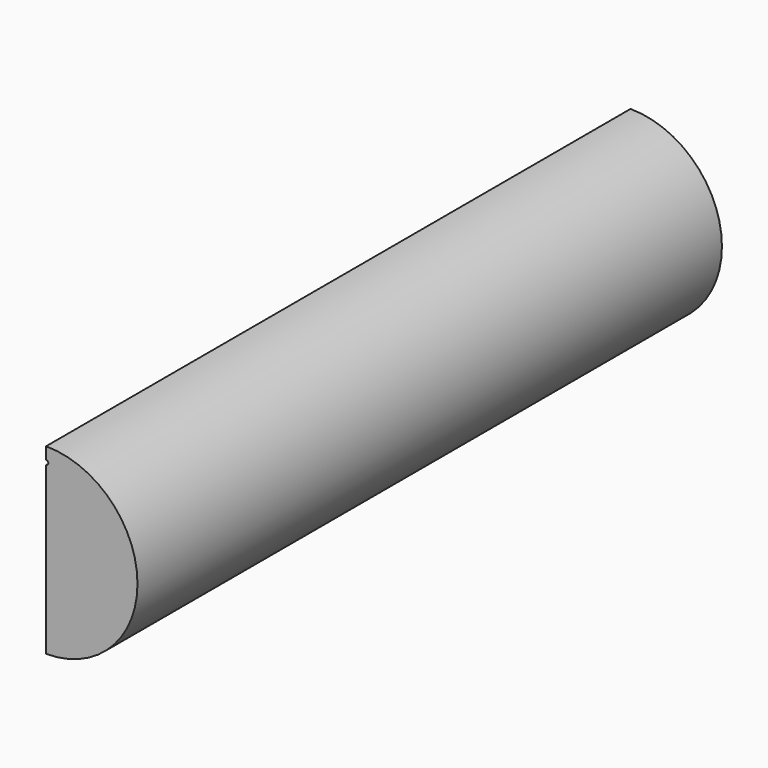
from build123d import *

# Parameters (mm, degrees)
F0_R     = 161.29
F1_DEPTH = 1289.304
F2_R     = 4.826
F3_DEPTH = 905.002
F8_DEPTH = 1323.34


with BuildPart() as f1:
    # F0 (on Front) → F1 (new body)
    with BuildSketch(Plane.XZ):
        Circle(F0_R)
    extrude(amount=F1_DEPTH)

    # F2 (on face) → F3 (cut)
    with BuildSketch(Plane(origin=(0, 0, 0), x_dir=(-1, 0, 0), z_dir=(0, 1, 0))):
        with Locations((0, 77.724)):
            Circle(F2_R)
    extrude(amount=-F3_DEPTH, mode=Mode.SUBTRACT)

    # F4 (on Right) → F5 (revolve, cut)
    with BuildSketch(Plane.YZ):
        Polygon((-1291.5896564596, 140.5679192197), (-1289.304, 136.271), (-879.3132141796, 78.6505527405), (-879.3132141796, 82.6262438935), (-1288.7560755015, 140.1696853866), align=None)
    revolve(axis=Axis((0, -1084.3086070898, 107.4607763703), (0, 0.9902680687, -0.139173101)), mode=Mode.SUBTRACT)

    # F7 (on face) → F8 (cut)
    with BuildSketch(Plane(origin=(0, 0, 0), x_dir=(-1, 0, 0), z_dir=(0, 1, 0))):
        Polygon((88.3945971727, 168.1389510632), (0, 174.1231227369), (0, -186.8681758642), (195.7223266363, -99.0545749664), (195.7223266363, 72.0693692565), align=None)
    extrude(amount=-F8_DEPTH, mode=Mode.SUBTRACT)

    # F6 (on Right) → F9 (revolve, cut)
    with BuildSketch(Plane.YZ):
        Polygon((36.6785619574, 104.2698238297), (36.2579483429, 109.0774594427), (-321.6055191638, 77.7684629458), (-321.1849055493, 72.9608273328), align=None)
    revolve(axis=Axis((0, -142.6737854104, 93.4229611943), (0, -0.9961946981, -0.0871557427)), mode=Mode.SUBTRACT)


solid = f1.part
